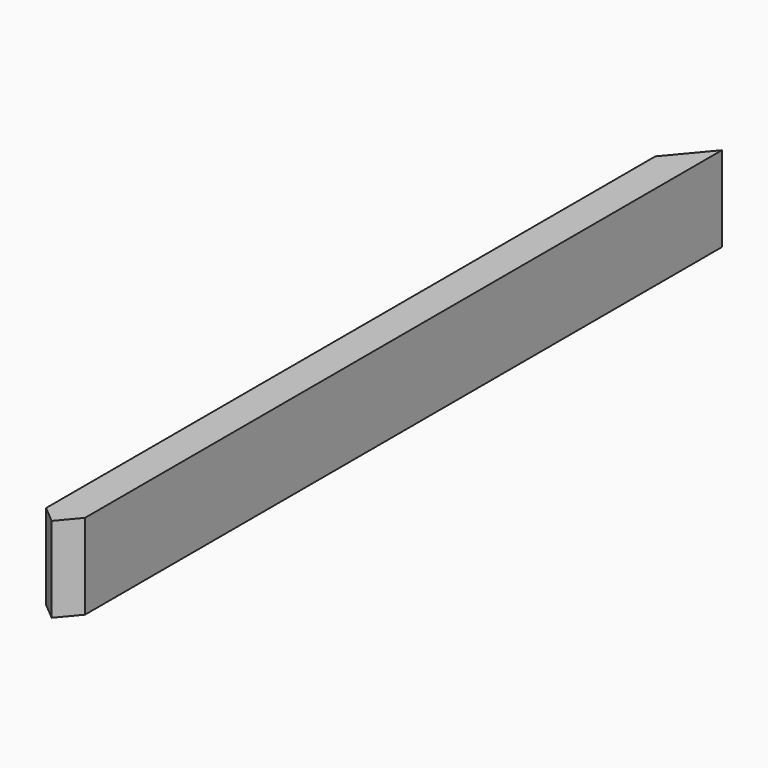
from build123d import *

# Parameters (mm, degrees)
F0_W     = 50
F0_H     = 125
F1_DEPTH = 1200
F3_DEPTH = 125
F5_DEPTH = 125


with BuildPart() as f1:
    # F0 (on Front) → F1 (new body)
    with BuildSketch(Plane.XZ):
        Rectangle(F0_W, F0_H)
    extrude(amount=F1_DEPTH)

    # F2 (on face) → F3 (cut, through all)
    with BuildSketch(Plane.XY.offset(62.5)):
        Polygon((-25, -59.58768), (25, 0), (-25, 0), align=None)
    extrude(amount=-F3_DEPTH, mode=Mode.SUBTRACT)

    # F4 (on face) → F5 (cut, through all)
    with BuildSketch(Plane.XY.offset(62.5)):
        Polygon((0, -1196.58671), (-25, -1175.609219), (-25, -1200), (25, -1200), (25, -1166.79287), align=None)
    extrude(amount=-F5_DEPTH, mode=Mode.SUBTRACT)


solid = f1.part
